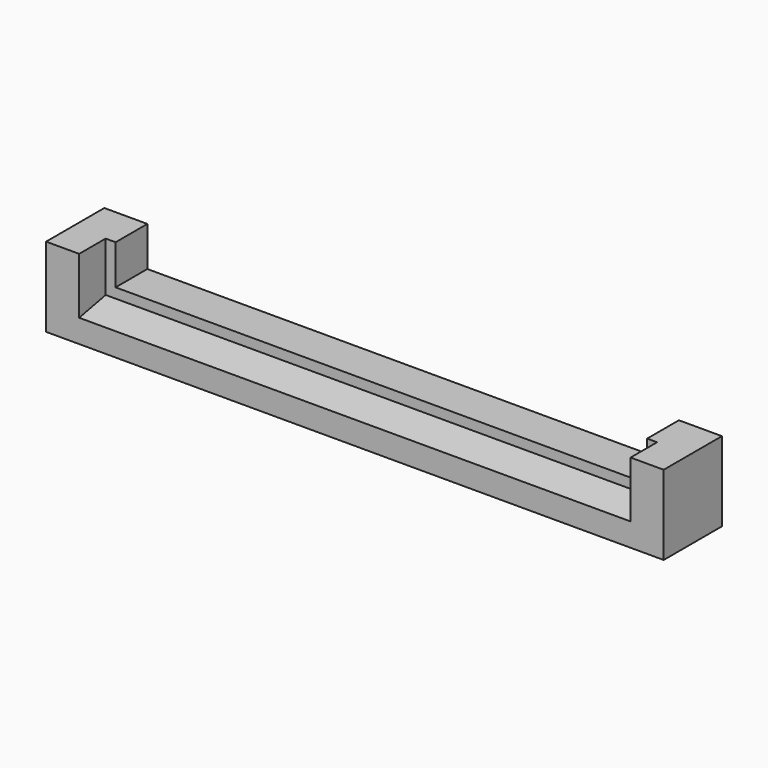
from build123d import *

# Parameters (mm, degrees)
F1_DEPTH = 466.5
F3_DEPTH = 120


with BuildPart() as f1:
    # F0 (on Right) → F1 (new body, symmetric)
    with BuildSketch(Plane.YZ):
        Polygon((-55, 35), (-55, 0), (55, 0), (55, 60), (-5, 60), (-5, 45), align=None)
    extrude(amount=F1_DEPTH, both=True)

    # F2 (on face) → F3 (join)
    with BuildSketch(Plane(origin=(0, 0, 0), x_dir=(1, 0, 0), z_dir=(0, 0, -1))):
        Polygon((-416.5, 5), (-416.5, 55), (-466.5, 55), (-466.5, -55), (-401.5, -55), (-401.5, 5), align=None)
        Polygon((466.5, -55), (466.5, 55), (416.5, 55), (416.5, 5), (401.5, 5), (401.5, -55), align=None)
    extrude(amount=-F3_DEPTH)


solid = f1.part
